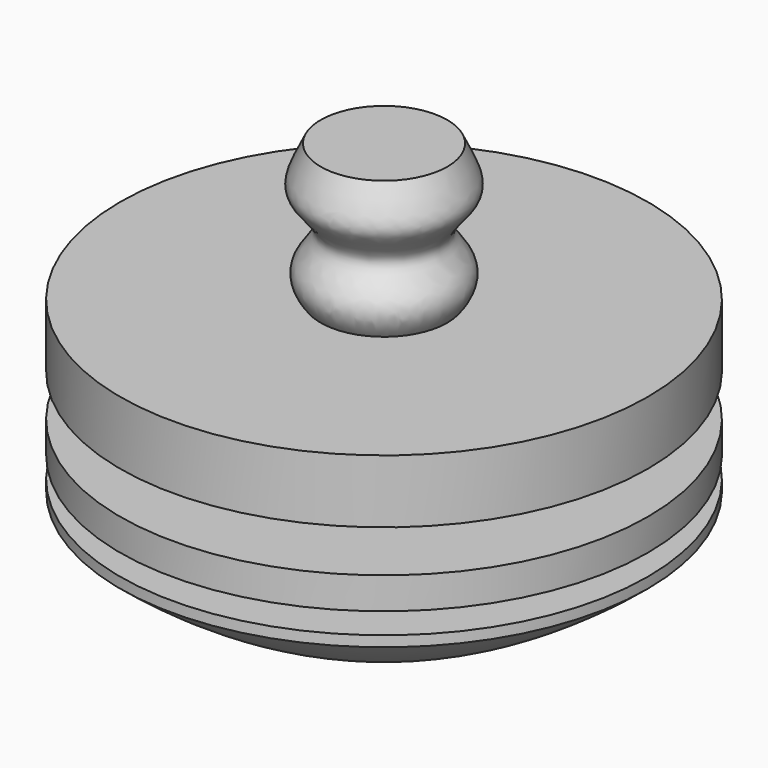
from build123d import *


with BuildPart() as f1:
    # F0 (on Front) → F1 (revolve)
    with BuildSketch(Plane.XZ):
        with BuildLine():
            Line((31.75, 17.7578248391), (31.75, 21.5678248391))
            Line((31.75, 21.5678248391), (13.9625025913, 21.5678248391))
            Line((13.9625025913, 21.5678248391), (13.9625025913, 26.6478248391))
            Line((13.9625025913, 26.6478248391), (31.75, 26.6478248391))
            Line((31.75, 26.6478248391), (31.75, 34.2678248391))
            Line((31.75, 34.2678248391), (7.62, 34.2678248391))
            add(Edge.make_bspline(
                [(7.62, 50.8), (8.7946373317, 48.2662832015), (10.5938172445, 45.6910384811), (3.9703337235, 41.1560327641), (10.6575661956, 38.0275243968), (7.62, 34.2678248391)],
                knots=[0, 0, 0, 0, 0.3247209532, 0.6256741659, 1, 1, 1, 1], degree=3))
            Line((7.62, 50.8), (0, 50.8))
            Line((0, 50.8), (0, 0))
            ThreePointArc((0, 0), (16.8455899513, 4.7645191049), (31.75, 13.9478248391))
            Line((31.75, 13.9478248391), (31.75, 15.2178248391))
            Line((31.75, 15.2178248391), (13.9625025913, 15.2178248391))
            Line((13.9625025913, 15.2178248391), (13.9625025913, 17.7578248391))
            Line((13.9625025913, 17.7578248391), (31.75, 17.7578248391))
        make_face()
    revolve(axis=Axis((0, 0, 25.4), (0, 0, 1)))


solid = f1.part
